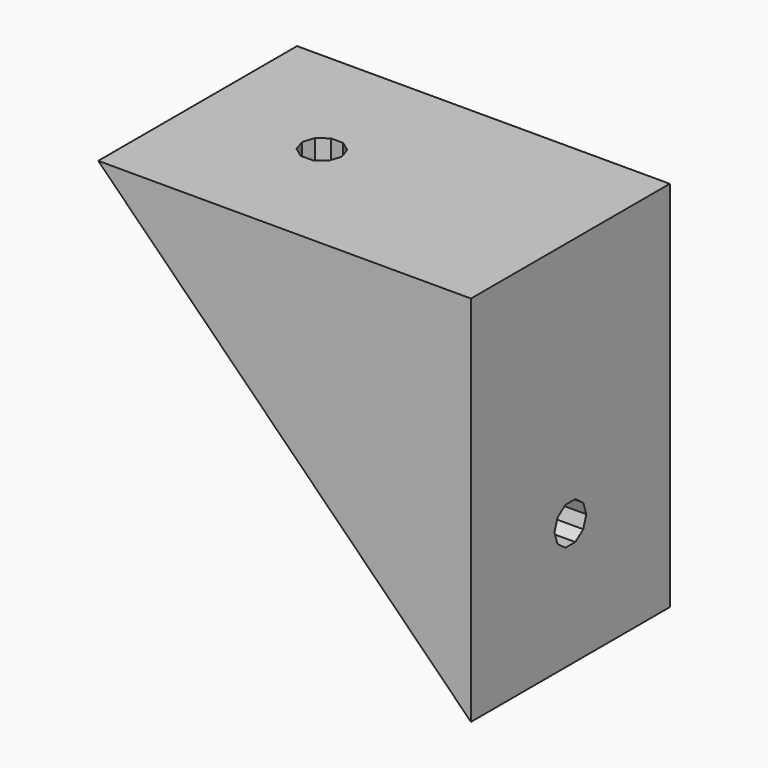
from build123d import *

# Parameters (mm, degrees)
PRISM086_DEPTH           = 30
PRISM086_PITCH_ANGLE     = 90
PRISM087_DEPTH           = 10
PRISM087_PITCH_ANGLE     = 90
PRISM088_DEPTH           = 30
PRISM088_ROLL_ANGLE      = 90
PRISM089_DEPTH           = 10
PRISM089_ROLL_ANGLE      = 90
CUBE088_W                = 60
CUBE088_H                = 30
CUBE088_DEPTH            = 20
CUBE088_PLACEMENT_ANGLE  = 45
CUBE087_W                = 30
CUBE087_H                = 30
CUBE087_DEPTH            = 20
DIFFERENCE053_ROLL_ANGLE = -90


with BuildPart() as prism086:
    # prism086 → prism086 (new body)
    with BuildSketch(Plane.XY):
        Polygon((1.6, 0), (1.294427, 0.940456), (0.494427, 1.52169), (-0.494427, 1.52169), (-1.294427, 0.940456), (-1.6, 0), (-1.294427, -0.940456), (-0.494427, -1.52169), (0.494427, -1.52169), (1.294427, -0.940456), align=None)
    extrude(amount=PRISM086_DEPTH)


with BuildPart() as prism086_1:
    # prism086 pitch: moved
    add(prism086.part.rotate(Axis((0, 0, 0), (0, 1, 0)), PRISM086_PITCH_ANGLE))


with BuildPart() as prism086_2:
    # prism086 placement: moved
    add(prism086_1.part.moved(Location((5, 20, 10))))


with BuildPart() as prism087:
    # prism087 → prism087 (new body)
    with BuildSketch(Plane.XY):
        Polygon((3, 0), (2.427051, 1.763356), (0.927051, 2.85317), (-0.927051, 2.85317), (-2.427051, 1.763356), (-3, 0), (-2.427051, -1.763356), (-0.927051, -2.85317), (0.927051, -2.85317), (2.427051, -1.763356), align=None)
    extrude(amount=PRISM087_DEPTH)


with BuildPart() as prism087_1:
    # prism087 pitch: moved
    add(prism087.part.rotate(Axis((0, 0, 0), (0, 1, 0)), PRISM087_PITCH_ANGLE))


with BuildPart() as prism087_2:
    # prism087 placement: moved
    add(prism087_1.part.moved(Location((15, 20, 10))))


with BuildPart() as prism088:
    # prism088 → prism088 (new body)
    with BuildSketch(Plane.XY):
        Polygon((1.6, 0), (1.294427, 0.940456), (0.494427, 1.52169), (-0.494427, 1.52169), (-1.294427, 0.940456), (-1.6, 0), (-1.294427, -0.940456), (-0.494427, -1.52169), (0.494427, -1.52169), (1.294427, -0.940456), align=None)
    extrude(amount=PRISM088_DEPTH)


with BuildPart() as prism088_1:
    # prism088 roll: moved
    add(prism088.part.rotate(Axis((0, 0, 0), (1, 0, 0)), PRISM088_ROLL_ANGLE))


with BuildPart() as prism088_2:
    # prism088 placement: moved
    add(prism088_1.part.moved(Location((10, 20, 10))))


with BuildPart() as prism089:
    # prism089 → prism089 (new body)
    with BuildSketch(Plane.XY):
        Polygon((3, 0), (2.427051, 1.763356), (0.927051, 2.85317), (-0.927051, 2.85317), (-2.427051, 1.763356), (-3, 0), (-2.427051, -1.763356), (-0.927051, -2.85317), (0.927051, -2.85317), (2.427051, -1.763356), align=None)
    extrude(amount=PRISM089_DEPTH)


with BuildPart() as prism089_1:
    # prism089 roll: moved
    add(prism089.part.rotate(Axis((0, 0, 0), (1, 0, 0)), PRISM089_ROLL_ANGLE))


with BuildPart() as prism089_2:
    # prism089 placement: moved
    add(prism089_1.part.moved(Location((10, 15, 10))))


with BuildPart() as union042:
    # cube088 → cube088 (new body)
    with BuildSketch(Plane.XY):
        with Locations((30, 15)):
            Rectangle(CUBE088_W, CUBE088_H)
    extrude(amount=CUBE088_DEPTH)


with BuildPart() as union042_1:
    # cube088 placement: moved
    add(union042.part.rotate(Axis((0, 0, 0), (0, 0, 1)), CUBE088_PLACEMENT_ANGLE))

    # union042: union prism086, prism087, prism088, prism089
    add(prism086_2.part)
    add(prism087_2.part)
    add(prism088_2.part)
    add(prism089_2.part)


with BuildPart() as difference053:
    # cube087 → cube087 (new body)
    with BuildSketch(Plane.XY):
        with Locations((15, 15)):
            Rectangle(CUBE087_W, CUBE087_H)
    extrude(amount=CUBE087_DEPTH)

    # difference053: cut union042
    add(union042_1.part, mode=Mode.SUBTRACT)


with BuildPart() as difference053_1:
    # difference053 roll: moved
    add(difference053.part.rotate(Axis((0, 0, 0), (1, 0, 0)), DIFFERENCE053_ROLL_ANGLE))


with BuildPart() as difference053_2:
    # difference053 placement: moved
    add(difference053_1.part.moved(Location((436, 285, 332))))


solid = difference053_2.part
